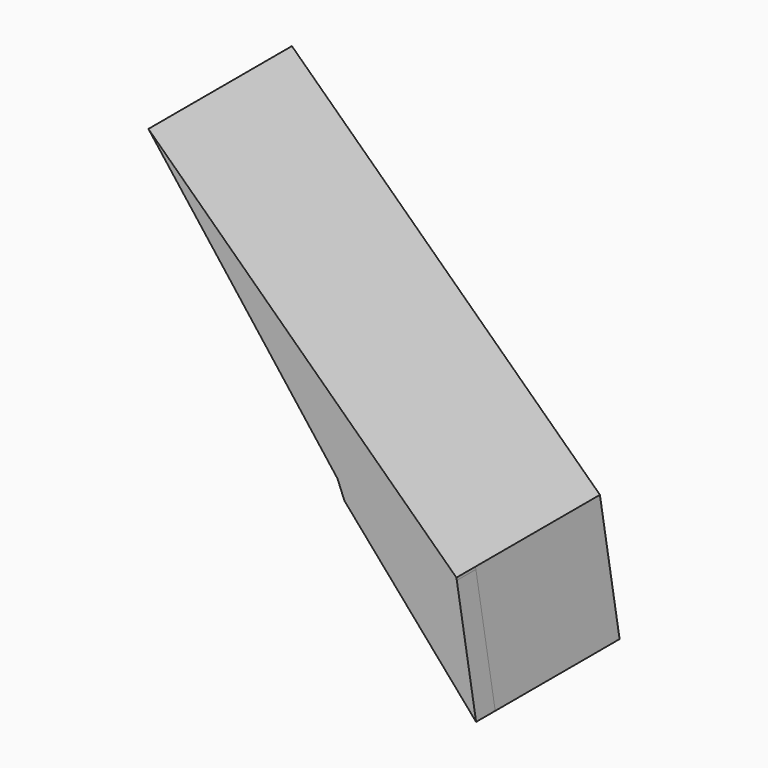
from build123d import *

# Parameters (mm, degrees)
F1_DEPTH = 25.4
F2_DEPTH = 165.608


with BuildPart() as f1:
    # F0 (on Front) → F1 (new body)
    with BuildSketch(Plane.XZ):
        Polygon((28.065755, -33.692958), (78.471489, -91.832571), (57.925102, 34.130888), align=None)
        Polygon((-61.737064, 69.888532), (28.065755, -33.692958), (57.925102, 34.130888), (57.516154, 36.638021), align=None)
        Polygon((-69.187544, 88.35157), (-61.737064, 69.888532), (57.516154, 36.638021), (-270.528197, 350.663453), align=None)
    extrude(amount=F1_DEPTH)

    # F1_face (on face) → F2 (join)
    with BuildSketch(Plane(origin=(-46.516677, 0, 96.881853), x_dir=(1, 0, 0), z_dir=(0, 1, 0))):
        Polygon((104.032831, 60.243832), (124.988166, 188.714424), (-15.220387, 26.993321), (-22.670867, 8.530283), (-224.01152, -253.7816), align=None)
    extrude(amount=F2_DEPTH)


solid = f1.part
